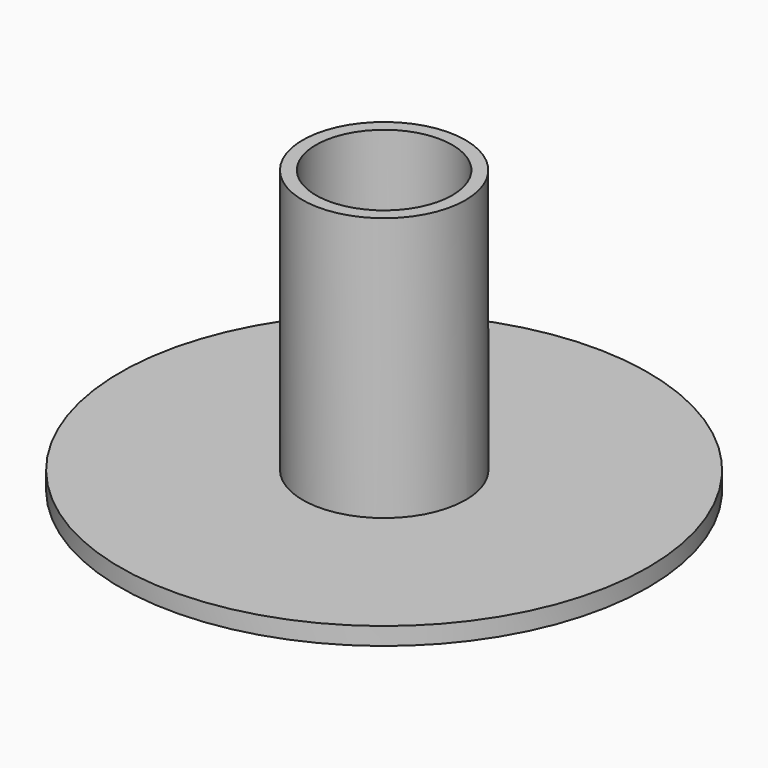
from build123d import *

# Parameters (mm, degrees)
F0_R     = 9.25
F0_R_2   = 7.75
F1_DEPTH = 30
F2_R     = 30
F3_DEPTH = 2
F4_R     = 6
F5_DEPTH = 25


with BuildPart() as f1:
    # F0 (on Top) → F1 (new body)
    with BuildSketch(Plane.XY):
        Circle(F0_R)
        Circle(F0_R_2, mode=Mode.SUBTRACT)
    extrude(amount=F1_DEPTH)

    # F2 (on face) → F3 (join)
    with BuildSketch(Plane(origin=(0, 0, 0), x_dir=(1, 0, 0), z_dir=(0, 0, -1))):
        Circle(F2_R)
    extrude(amount=F3_DEPTH)

    # F4 (on Front) → F5 (cut)
    with BuildSketch(Plane.XZ):
        with Locations((0, 6)):
            Circle(F4_R)
    extrude(amount=-F5_DEPTH, mode=Mode.SUBTRACT)


solid = f1.part
